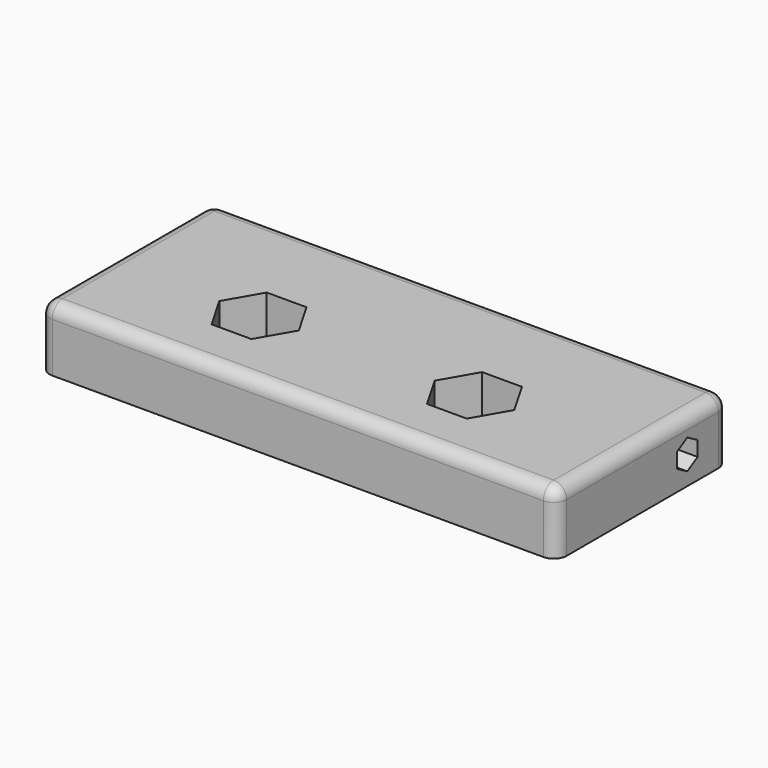
from build123d import *

# Parameters (mm, degrees)
SKETCH_W         = 60
SKETCH_H         = 25
PAD_DEPTH        = 7.25
HOLE_D           = 5
HOLE_DEPTH       = 25
HOLE_CBORE_D     = 6.2
HOLE_CBORE_DEPTH = 1.6
POCKET_DEPTH     = 4.5
POCKET001_DEPTH  = 60.001
FILLET_R         = 1.5


with BuildPart() as part:
    # Sketch → Pad (new body)
    with BuildSketch(Plane.XY):
        with Locations((0, 2.5)):
            Rectangle(SKETCH_W, SKETCH_H)
    extrude(amount=PAD_DEPTH)

    # Hole
    with Locations(Plane(origin=(0, 0, 0), x_dir=(1, 0, 0), z_dir=(0, 0, -1))):
        with Locations((-12.5, 0), (12.5, 0)):
            CounterBoreHole(HOLE_D / 2, HOLE_CBORE_D / 2, HOLE_CBORE_DEPTH, depth=HOLE_DEPTH)

    # Sketch002 (on Face5 of Hole) → Pocket (cut)
    with BuildSketch(Plane.XY.offset(7.25)):
        Polygon((-10.190599, 4), (-14.809401, 4), (-17.118802, 0), (-14.809401, -4), (-10.190599, -4), (-7.881198, 0), align=None)
        Polygon((10.190599, 4), (7.881198, 0), (10.190599, -4), (14.809401, -4), (17.118802, 0), (14.809401, 4), align=None)
    extrude(amount=-POCKET_DEPTH, mode=Mode.SUBTRACT)

    # Sketch003 (on Face2 of Pocket) → Pocket001 (cut, through all)
    with BuildSketch(Plane(origin=(-30, 0, 0), x_dir=(0, -1, 0), z_dir=(-1, 0, 0))):
        Polygon((-7.5, 4.116025), (-9, 4.982051), (-10.5, 4.116025), (-10.5, 2.383975), (-9, 1.517949), (-7.5, 2.383975), align=None)
    extrude(amount=-POCKET001_DEPTH, mode=Mode.SUBTRACT)

    # Fillet
    fillet_edges = [part.edges().sort_by_distance(p)[0] for p in [
        (-30, -10, 3.625),
        (-30, 2.5, 7.25),
        (0, 15, 7.25),
        (0, -10, 7.25),
        (-30, 15, 3.625),
        (30, 2.5, 7.25),
        (30, -10, 3.625),
        (30, 15, 3.625),
    ]]
    fillet(fillet_edges, radius=FILLET_R)


solid = part.part
